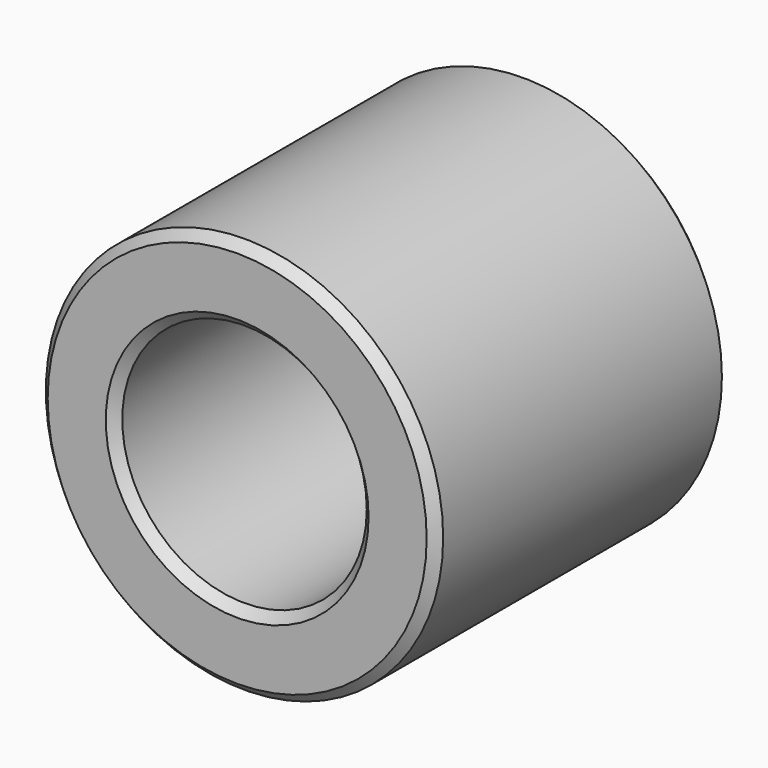
from build123d import *

# Parameters (mm, degrees)
F0_R     = 6.5
F0_R_2   = 4
F1_DEPTH = 12
F2_SIZE  = 0.3


with BuildPart() as f1:
    # F0 (on Front) → F1 (new body)
    with BuildSketch(Plane.XZ):
        Circle(F0_R)
        Circle(F0_R_2, mode=Mode.SUBTRACT)
    extrude(amount=-F1_DEPTH)

    # F2
    f2_edges = [f1.edges().sort_by_distance(p)[0] for p in [
        (-6.5, 0, 0),
        (-6.5, 12, 0),
        (-4, 0, 0),
        (-4, 12, 0),
    ]]
    chamfer(f2_edges, length=F2_SIZE)


solid = f1.part
